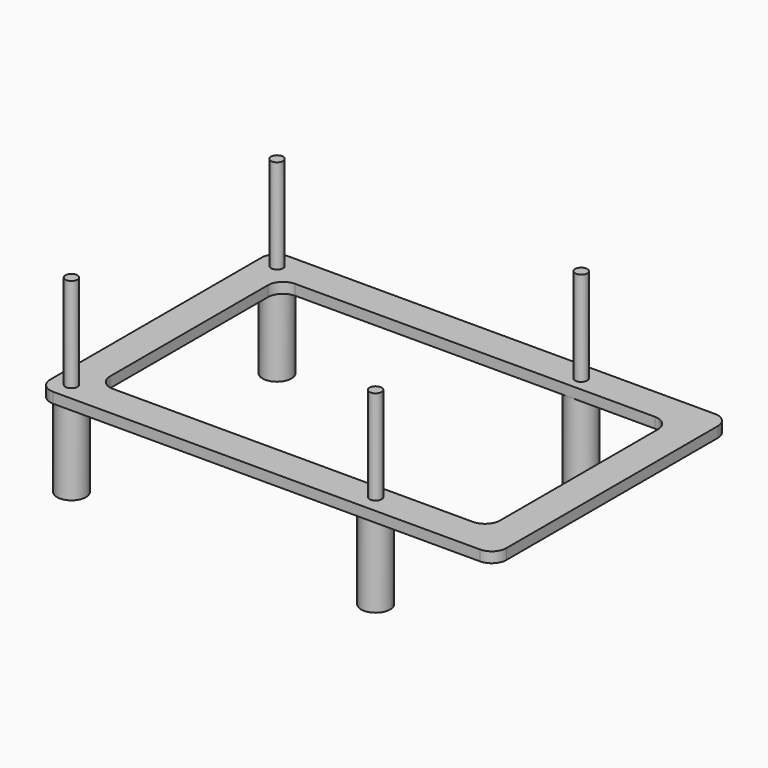
from build123d import *

# Parameters (mm, degrees)
F0_R      = 1.15
F1_DEPTH  = 2
F2_DEPTH  = 105
F4_R      = 2.75
F4_R_2    = 1.75
F5_DEPTH  = 2
F6_DEPTH  = 2
F7_DEPTH  = 16
F9_R      = 1.15
F10_DEPTH = 18
F12_DEPTH = 2


with BuildPart() as f1:
    # F0 (on Top) → F1 (new body)
    with BuildSketch(Plane.XY):
        with BuildLine():
            ThreePointArc((0, 2.8), (0.8201010127, 0.8201010127), (2.8, 0))
            Line((2.8, 0), (84.2, 0))
            ThreePointArc((84.2, 0), (86.1798989873, 0.8201010127), (87, 2.8))
            Line((87, 2.8), (87, 53.2))
            ThreePointArc((87, 53.2), (86.1798989873, 55.1798989873), (84.2, 56))
            Line((84.2, 56), (2.8, 56))
            ThreePointArc((2.8, 56), (0.8201010127, 55.1798989873), (0, 53.2))
            Line((0, 53.2), (0, 2.8))
        make_face()
        with Locations((3.5, 3.5)):
            Circle(F0_R, mode=Mode.SUBTRACT)
        with Locations((61.5, 3.5)):
            Circle(F0_R, mode=Mode.SUBTRACT)
        with Locations((3.5, 52.5)):
            Circle(F0_R, mode=Mode.SUBTRACT)
        with Locations((61.5, 52.5)):
            Circle(F0_R, mode=Mode.SUBTRACT)
        with Locations((3.5, 3.5)):
            Circle(F0_R)
        with Locations((61.5, 52.5)):
            Circle(F0_R)
        with Locations((61.5, 3.5)):
            Circle(F0_R)
        with Locations((61.5, 52.5)):
            Circle(F0_R)
        with Locations((61.5, 3.5)):
            Circle(F0_R)
        with Locations((3.5, 52.5)):
            Circle(F0_R)
    extrude(amount=F1_DEPTH)

    # F0 (on Top) → F2 (join)
    with BuildSketch(Plane.XY):
        with Locations((61.5, 3.5)):
            Circle(F0_R)
        with Locations((61.5, 52.5)):
            Circle(F0_R)
        with Locations((3.5, 52.5)):
            Circle(F0_R)
        with Locations((3.5, 3.5)):
            Circle(F0_R)
    extrude(amount=F2_DEPTH)


with BuildPart() as f5:
    # F4 (on offset) → F5 (new body)
    with BuildSketch(Plane.XY.offset(25)):
        with BuildLine():
            Line((84.2, 56), (2.8, 56))
            ThreePointArc((2.8, 56), (0.8201010127, 55.1798989873), (0, 53.2))
            Line((0, 53.2), (0, 2.8))
            ThreePointArc((0, 2.8), (0.8201010127, 0.8201010127), (2.8, 0))
            Line((2.8, 0), (84.2, 0))
            ThreePointArc((84.2, 0), (86.1798989873, 0.8201010127), (87, 2.8))
            Line((87, 2.8), (87, 53.2))
            ThreePointArc((87, 53.2), (86.1798989873, 55.1798989873), (84.2, 56))
        make_face()
        with Locations((3.5, 3.5)):
            Circle(F4_R, mode=Mode.SUBTRACT)
        with Locations((61.5, 3.5)):
            Circle(F4_R, mode=Mode.SUBTRACT)
        with Locations((3.5, 52.5)):
            Circle(F4_R, mode=Mode.SUBTRACT)
        with Locations((61.5, 52.5)):
            Circle(F4_R, mode=Mode.SUBTRACT)
        with Locations((3.5, 3.5)):
            Circle(F4_R)
        with Locations((3.5, 3.5)):
            Circle(F4_R_2, mode=Mode.SUBTRACT)
        with Locations((61.5, 3.5)):
            Circle(F4_R)
        with Locations((61.5, 3.5)):
            Circle(F4_R_2, mode=Mode.SUBTRACT)
        with Locations((61.5, 52.5)):
            Circle(F4_R)
        with Locations((61.5, 52.5)):
            Circle(F4_R_2, mode=Mode.SUBTRACT)
        with Locations((3.5, 52.5)):
            Circle(F4_R)
        with Locations((3.5, 52.5)):
            Circle(F4_R_2, mode=Mode.SUBTRACT)
        with Locations((3.5, 3.5)):
            Circle(F4_R_2)
        with Locations((61.5, 3.5)):
            Circle(F4_R_2)
        with Locations((61.5, 52.5)):
            Circle(F4_R_2)
        with Locations((3.5, 52.5)):
            Circle(F4_R_2)
    extrude(amount=F5_DEPTH)

    # F4 (on offset) → F6 (join, through all)
    with BuildSketch(Plane.XY.offset(25)):
        with Locations((3.5, 3.5)):
            Circle(F4_R)
        with Locations((3.5, 3.5)):
            Circle(F4_R_2, mode=Mode.SUBTRACT)
        with Locations((3.5, 52.5)):
            Circle(F4_R)
        with Locations((3.5, 52.5)):
            Circle(F4_R_2, mode=Mode.SUBTRACT)
        with Locations((61.5, 52.5)):
            Circle(F4_R)
        with Locations((61.5, 52.5)):
            Circle(F4_R_2, mode=Mode.SUBTRACT)
        with Locations((61.5, 3.5)):
            Circle(F4_R)
        with Locations((61.5, 3.5)):
            Circle(F4_R_2, mode=Mode.SUBTRACT)
    extrude(amount=F6_DEPTH)

    # F4 (on offset) → F7 (join)
    with BuildSketch(Plane.XY.offset(25)):
        with Locations((3.5, 3.5)):
            Circle(F4_R)
        with Locations((3.5, 3.5)):
            Circle(F4_R_2, mode=Mode.SUBTRACT)
        with Locations((3.5, 52.5)):
            Circle(F4_R)
        with Locations((3.5, 52.5)):
            Circle(F4_R_2, mode=Mode.SUBTRACT)
        with Locations((61.5, 3.5)):
            Circle(F4_R)
        with Locations((61.5, 3.5)):
            Circle(F4_R_2, mode=Mode.SUBTRACT)
        with Locations((61.5, 52.5)):
            Circle(F4_R)
        with Locations((61.5, 52.5)):
            Circle(F4_R_2, mode=Mode.SUBTRACT)
    extrude(amount=-F7_DEPTH)

    # F9 (on face) → F10 (join)
    with BuildSketch(Plane.XY.offset(27)):
        with Locations((3.5, 52.5)):
            Circle(F9_R)
        with Locations((61.5, 52.5)):
            Circle(F9_R)
        with Locations((61.5, 3.5)):
            Circle(F9_R)
        with Locations((3.5, 3.5)):
            Circle(F9_R)
    extrude(amount=F10_DEPTH)

    # F11 (on face) → F12 (cut)
    with BuildSketch(Plane.XY.offset(27)):
        with BuildLine():
            Line((6.3, 46.8), (6.3, 9.2))
            ThreePointArc((6.3, 9.2), (7.1493903346, 7.1493903346), (9.2, 6.3))
            Line((9.2, 6.3), (77.8, 6.3))
            ThreePointArc((77.8, 6.3), (79.8506096654, 7.1493903346), (80.7, 9.2))
            Line((80.7, 9.2), (80.7, 46.8))
            ThreePointArc((80.7, 46.8), (79.8506096654, 48.8506096654), (77.8, 49.7))
            Line((77.8, 49.7), (9.2, 49.7))
            ThreePointArc((9.2, 49.7), (7.1493903346, 48.8506096654), (6.3, 46.8))
        make_face()
    extrude(amount=-F12_DEPTH, mode=Mode.SUBTRACT)


solid = f5.part
